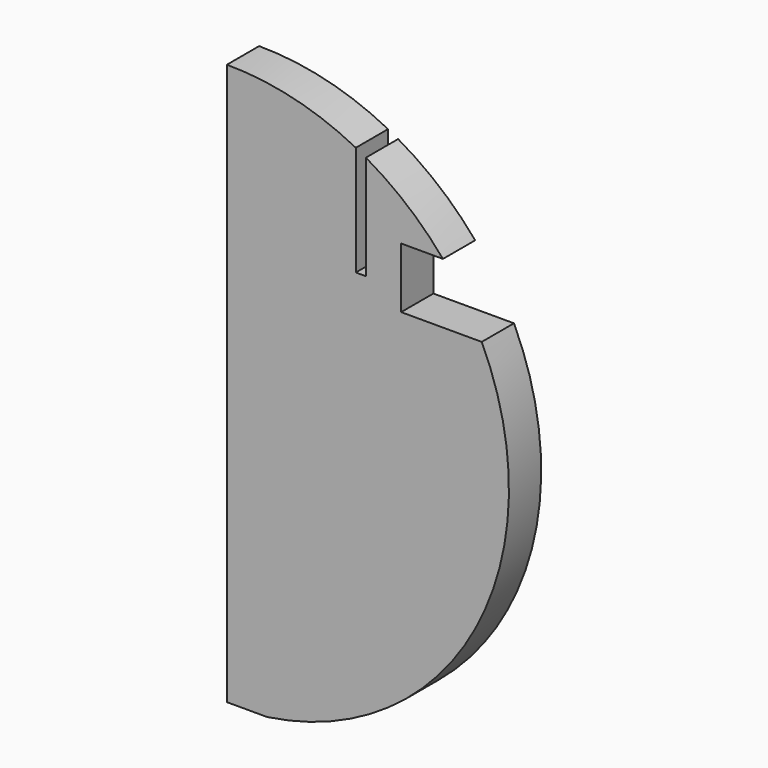
from build123d import *

# Parameters (mm, degrees)
F1_DEPTH = 12.7


with BuildPart() as f1:
    # F0 (on Front) → F1 (new body)
    with BuildSketch(Plane.XZ):
        with BuildLine():
            ThreePointArc((40.634353, 79.069965), (20.903231, 86.407551), (0, 88.9))
            Line((0, 88.9), (0, -87.988181))
            Line((0, -87.988181), (12.7, -87.988181))
            ThreePointArc((12.7, -87.988181), (78.344263, -42.016501), (80.321853, 38.1))
            Line((80.321853, 38.1), (54.921853, 38.1))
            Line((54.921853, 38.1), (54.921853, 57.15))
            Line((54.921853, 57.15), (68.096164, 57.15))
            ThreePointArc((68.096164, 57.15), (56.857557, 68.340532), (43.809353, 77.355999))
            Line((43.809353, 77.355999), (43.809353, 44.45))
            Line((43.809353, 44.45), (40.634353, 44.45))
            Line((40.634353, 44.45), (40.634353, 79.069965))
        make_face()
    extrude(amount=F1_DEPTH)


solid = f1.part
